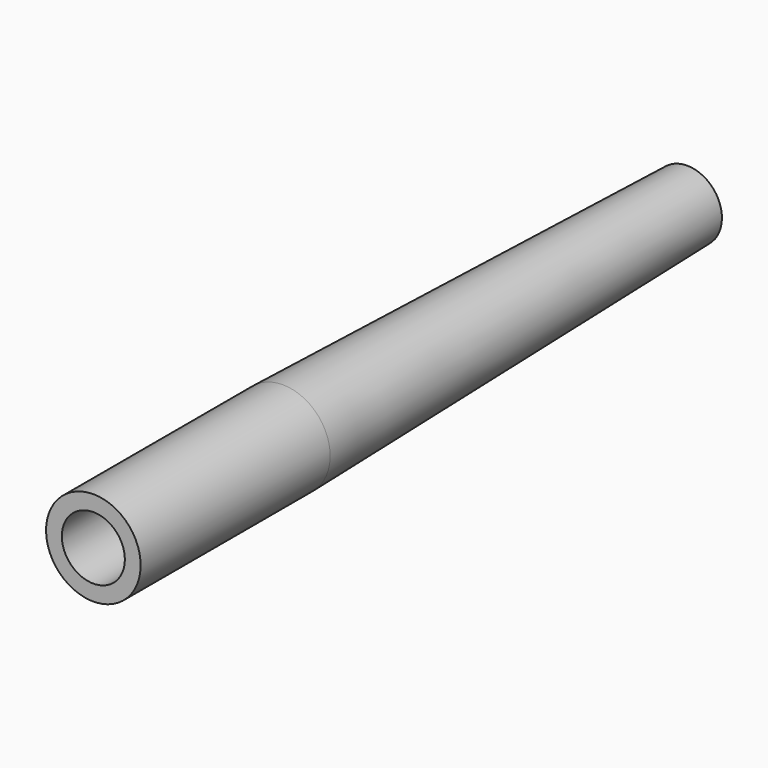
from build123d import *

# Parameters (mm, degrees)
F2_T = -2


with BuildPart() as f1:
    # F0 (on Right) → F1 (revolve)
    with BuildSketch(Plane.YZ):
        Polygon((64, 4.3991051808), (0, 5.9891051808), (-30, 5.9891051808), (-30, 0), (0, 0), (64, 0), align=None)
    revolve(axis=Axis((0, 32, 0), (0, -1, 0)))

    # F2
    f2_openings = [f1.faces().sort_by_distance(p)[0] for p in [
        (0, -30, 0),
    ]]
    offset(amount=F2_T, openings=f2_openings, kind=Kind.INTERSECTION)


solid = f1.part
